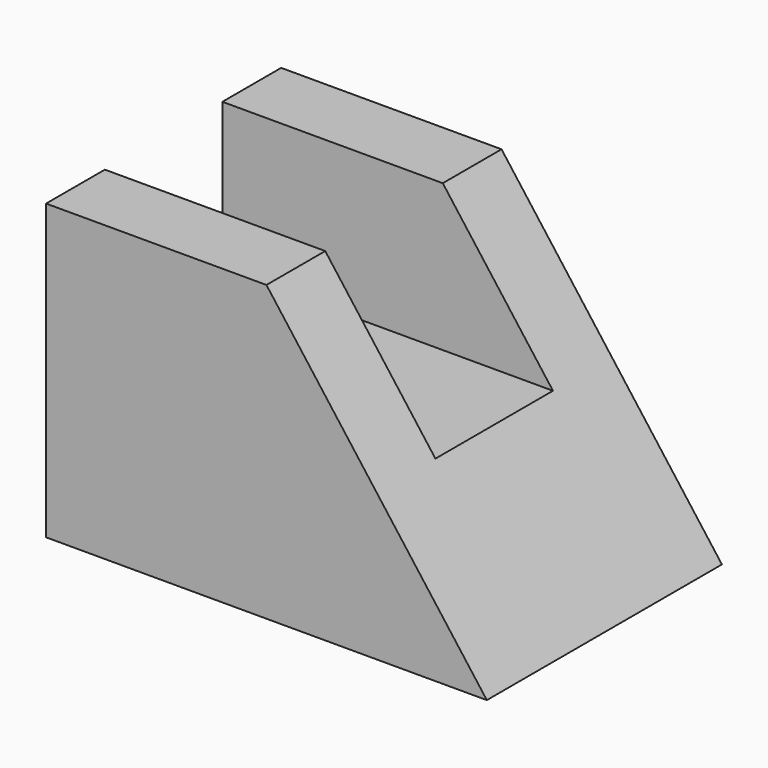
from build123d import *

# Parameters (mm, degrees)
F1_DEPTH      = 12.7
F2_W          = 12.7
F2_H          = 12.7
F3_DEPTH      = 19.051
F3_DEPTH_BACK = 19.051


with BuildPart() as f1:
    # F0 (on Front) → F1 (new body, symmetric)
    with BuildSketch(Plane.XZ):
        Polygon((-19.05, -12.7), (19.05, -12.7), (0, 12.7), (-19.05, 12.7), align=None)
    extrude(amount=F1_DEPTH, both=True)

    # F2 (on Right) → F3 (cut, two sides)
    with BuildSketch(Plane.YZ) as f3_sk:
        with Locations((0, 6.35)):
            Rectangle(F2_W, F2_H)
    extrude(amount=-F3_DEPTH, mode=Mode.SUBTRACT)
    extrude(f3_sk.sketch, amount=F3_DEPTH_BACK, mode=Mode.SUBTRACT)


solid = f1.part
